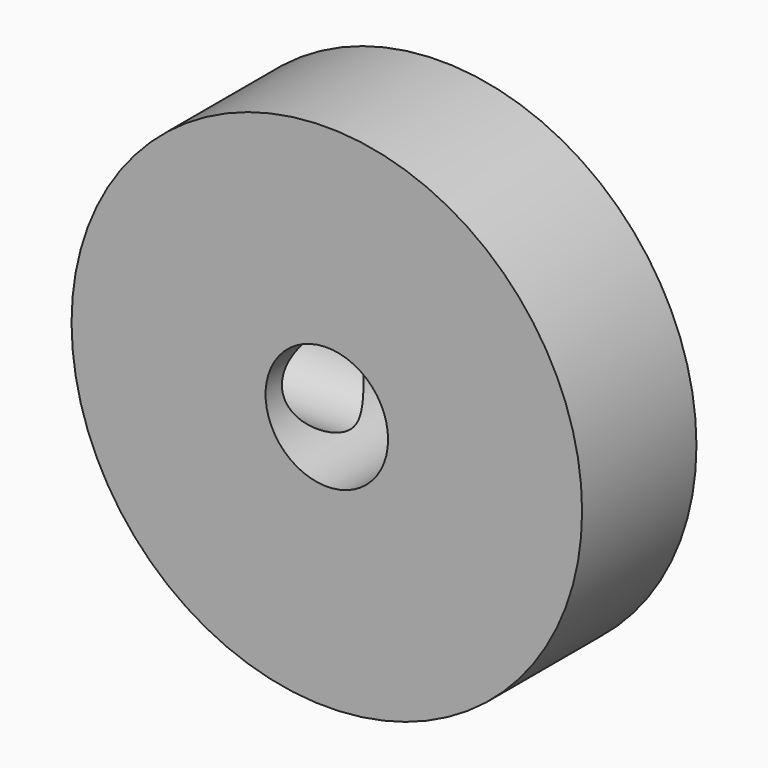
from build123d import *

# Parameters (mm, degrees)
F0_R     = 12.5
F0_R_2   = 3
F1_DEPTH = 7
F2_R     = 2.5
F3_DEPTH = 25


with BuildPart() as f1:
    # F0 (on Front) → F1 (new body)
    with BuildSketch(Plane.XZ):
        Circle(F0_R)
        Circle(F0_R_2, mode=Mode.SUBTRACT)
    extrude(amount=F1_DEPTH)

    # F2 (on Right) → F3 (cut)
    with BuildSketch(Plane.YZ):
        with Locations((-3.5, 0)):
            Circle(F2_R)
    extrude(amount=-F3_DEPTH, mode=Mode.SUBTRACT)


solid = f1.part
